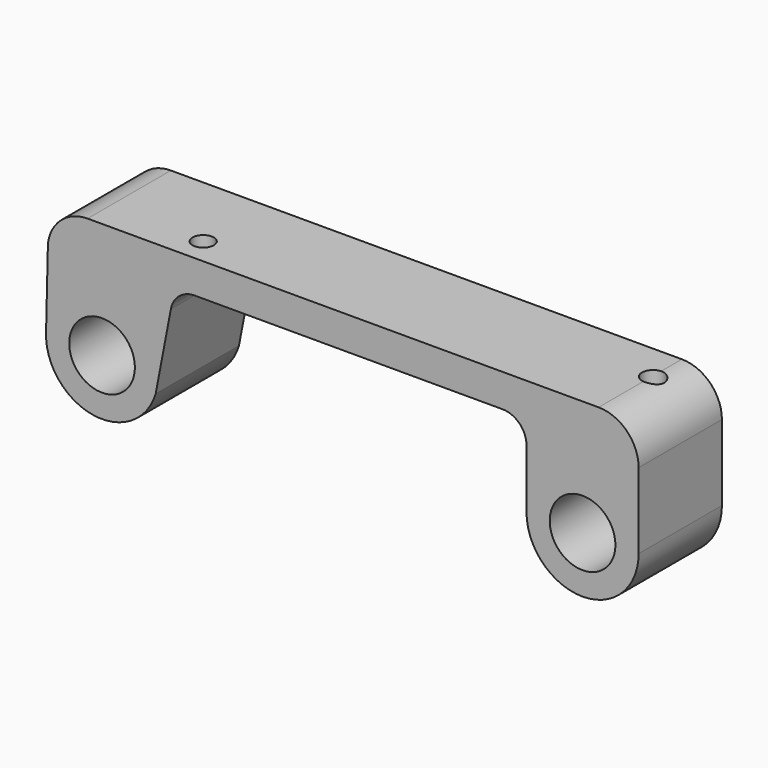
from build123d import *

# Parameters (mm, degrees)
F0_R     = 4.1
F1_DEPTH = 13
F2_R     = 1.327998
F2_R_2   = 1.395389
F3_DEPTH = 15


with BuildPart() as f1:
    # F0 (on Front) → F1 (new body)
    with BuildSketch(Plane.XZ):
        with BuildLine():
            Line((-36.756809, 10.154071), (-36.988087, 0.408211))
            ThreePointArc((-36.988087, 0.408211), (-31.234461, -6.890291), (-23.304849, -2.043272))
            Line((-23.304849, -2.043272), (-21.400974, 7.909327))
            ThreePointArc((-21.400974, 7.909327), (-20.366079, 9.657697), (-18.454402, 10.345665))
            Line((-18.454402, 10.345665), (-9.227201, 10.345665))
            Line((-9.227201, 10.345665), (0, 10.345665))
            Line((0, 10.345665), (10, 10.345665))
            Line((10, 10.345665), (20, 10.345665))
            ThreePointArc((20, 10.345665), (22.12132, 9.466985), (23, 7.345665))
            Line((23, 7.345665), (23, 0))
            ThreePointArc((23, 0), (30, -7), (37, 0))
            Line((37, 0), (37, 9.456913))
            ThreePointArc((37, 9.456913), (35.535534, 12.992447), (32, 14.456913))
            Line((32, 14.456913), (1.21127, 14.456913))
            Line((1.21127, 14.456913), (-1.21127, 14.456913))
            Line((-1.21127, 14.456913), (-31.805651, 14.456913))
            ThreePointArc((-31.805651, 14.456913), (-35.085453, 13.230889), (-36.756809, 10.154071))
        make_face()
        with Locations((-30, 0)):
            Circle(F0_R, mode=Mode.SUBTRACT)
        with Locations((30, 0)):
            Circle(F0_R, mode=Mode.SUBTRACT)
    extrude(amount=F1_DEPTH)

    # F2 (on face) → F3 (cut)
    with BuildSketch(Plane.XY.offset(14.456913)):
        with Locations((-20, -9.715236)):
            Circle(F2_R)
        with Locations((32.1, -4.615236)):
            Circle(F2_R_2)
    extrude(amount=-F3_DEPTH, mode=Mode.SUBTRACT)


solid = f1.part
